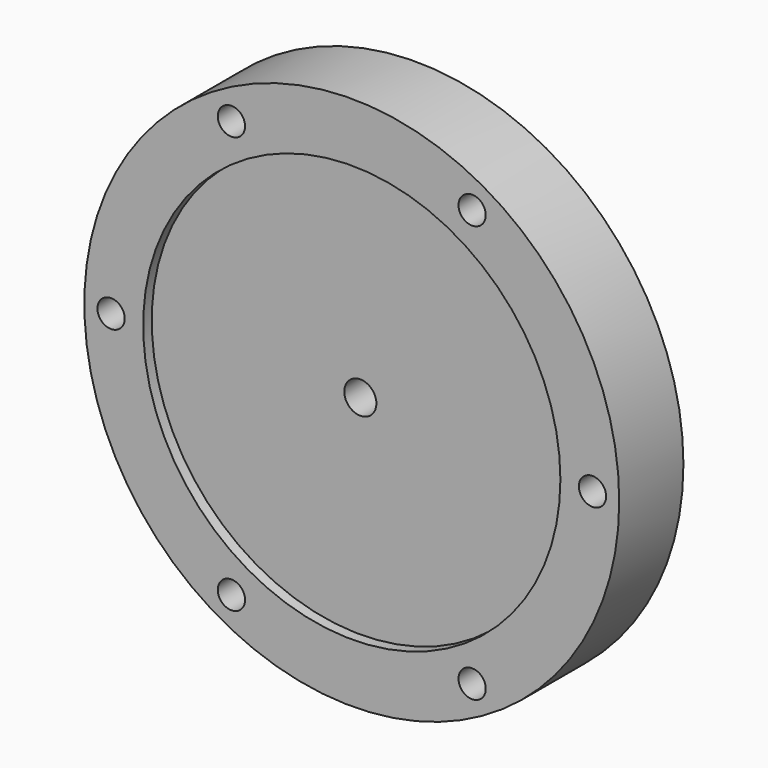
from build123d import *

# Parameters (mm, degrees)
F0_R     = 50
F0_R_2   = 3
F1_DEPTH = 15
F3_D     = 5.1
F4_R     = 39
F5_DEPTH = 2


with BuildPart() as f1:
    # F0 (on Front) → F1 (new body)
    with BuildSketch(Plane.XZ):
        Circle(F0_R)
        Circle(F0_R_2, mode=Mode.SUBTRACT)
    extrude(amount=-F1_DEPTH)

    # F3 (through all)
    with Locations(Plane.XZ):
        with Locations((-22.5, 38.971143), (22.5, 38.971143), (45, 0), (22.5, -38.971143), (-22.5, -38.971143), (-45, 0)):
            Hole(F3_D / 2)

    # F4 (on Front) → F5 (cut)
    with BuildSketch(Plane.XZ):
        Circle(F4_R)
    extrude(amount=-F5_DEPTH, mode=Mode.SUBTRACT)


solid = f1.part
